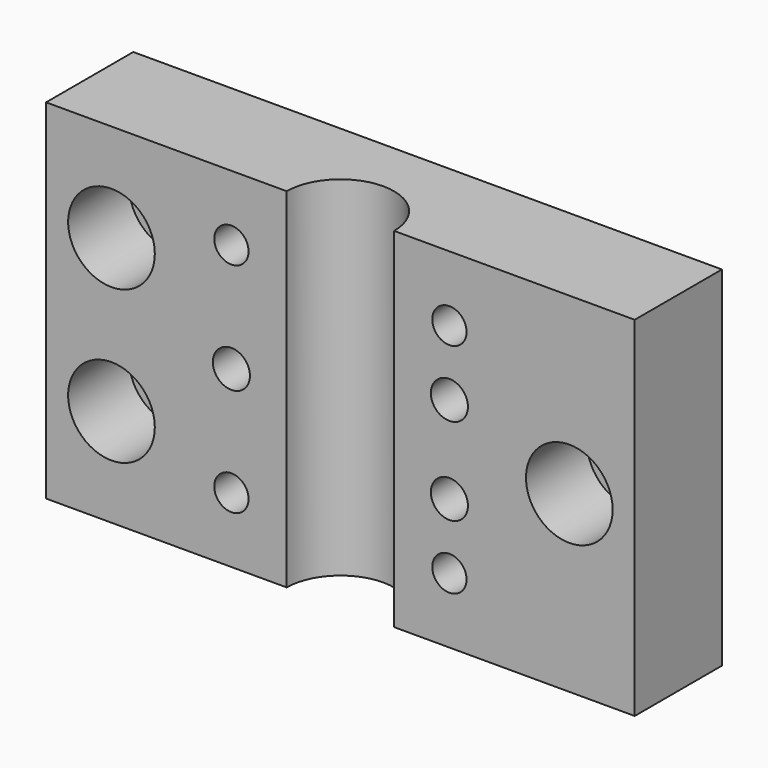
from build123d import *

# Parameters (mm, degrees)
SKETCH056_W     = 30
SKETCH056_H     = 32
SKETCH056_R     = 1.7
PAD037_DEPTH    = 10
SKETCH057_R     = 3.5
POCKET020_DEPTH = 5
POCKET020_TAPER = 20
SKETCH059_R     = 4.925
POCKET022_DEPTH = 32
SKETCH060_W     = 32
SKETCH060_H     = 10
PAD038_DEPTH    = 12
SKETCH062_R     = 1.575
POCKET024_DEPTH = 8
SKETCH086_R     = 3.975
POCKET037_DEPTH = 7


with BuildPart() as part:
    # Sketch056 → Pad037 (new body)
    with BuildSketch(Plane.XZ):
        Rectangle(SKETCH056_W, SKETCH056_H)
        with Locations((10, 4)):
            Circle(SKETCH056_R, mode=Mode.SUBTRACT)
        with Locations((10, -4)):
            Circle(SKETCH056_R, mode=Mode.SUBTRACT)
        with Locations((-10, 0)):
            Circle(SKETCH056_R, mode=Mode.SUBTRACT)
    extrude(amount=PAD037_DEPTH)

    # Sketch057 (on Face8 of Pad037) → Pocket020 (cut)
    with BuildSketch(Plane(origin=(0, 0, 0), x_dir=(1, 0, 0), z_dir=(0, 1, 0))):
        with Locations((-10, 0)):
            Circle(SKETCH057_R)
        with Locations((10, 4)):
            Circle(SKETCH057_R)
        with Locations((10, -4)):
            Circle(SKETCH057_R)
    extrude(amount=-POCKET020_DEPTH, taper=POCKET020_TAPER, mode=Mode.SUBTRACT)

    # Sketch059 (on Face1 of Pocket020) → Pocket022 (cut)
    with BuildSketch(Plane(origin=(0, 0, -16), x_dir=(1, 0, 0), z_dir=(0, 0, -1))):
        with Locations((0, 10)):
            Circle(SKETCH059_R)
    extrude(amount=-POCKET022_DEPTH, mode=Mode.SUBTRACT)

    # Sketch060 (on Face3 of Pocket022) → Pad038 (join)
    with BuildSketch(Plane(origin=(15, 0, 0), x_dir=(0, 0, 1), z_dir=(1, 0, 0))):
        with Locations((0, 5)):
            Rectangle(SKETCH060_W, SKETCH060_H)
    pad038 = extrude(amount=PAD038_DEPTH)

    # Sketch062 → Pocket024 (cut)
    with BuildSketch(Plane.XZ.offset(10)):
        with Locations((-10, 10)):
            Circle(SKETCH062_R)
        with Locations((-10, -10)):
            Circle(SKETCH062_R)
        with Locations((10, 10)):
            Circle(SKETCH062_R)
        with Locations((10, -10)):
            Circle(SKETCH062_R)
    extrude(amount=-POCKET024_DEPTH, mode=Mode.SUBTRACT)

    # Mirrored005: Pad038 across YZ
    add(pad038.mirror(Plane.YZ))

    # Sketch086 (on Face4 of Mirrored005) → Pocket037 (cut)
    with BuildSketch(Plane.XZ.offset(10)):
        with Locations((21, 0)):
            Circle(SKETCH086_R)
        with Locations((-21, 7)):
            Circle(SKETCH086_R)
        with Locations((-21, -7)):
            Circle(SKETCH086_R)
    extrude(amount=-POCKET037_DEPTH, mode=Mode.SUBTRACT)


with BuildPart() as part_1:
    # Body010 placement: moved
    add(part.part.moved(Location((-1, -43.5, 39.5))))


solid = part_1.part
